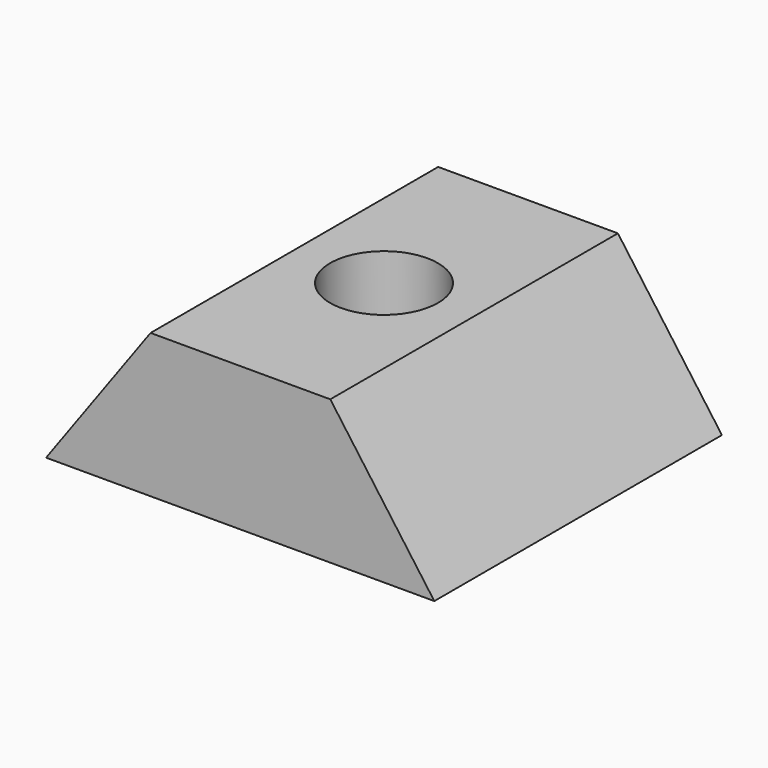
from build123d import *

# Parameters (mm, degrees)
F1_DEPTH = 10
F2_R     = 1.5
F3_DEPTH = 5


with BuildPart() as f1:
    # F0 (on Front) → F1 (new body)
    with BuildSketch(Plane.XZ):
        Polygon((-2.49383, 4), (-5.4, 0), (5.4, 0), (2.50617, 4), align=None)
    extrude(amount=F1_DEPTH)

    # F2 (on face) → F3 (cut)
    with BuildSketch(Plane.XY.offset(4)):
        with Locations((0, -5)):
            Circle(F2_R)
    extrude(amount=-F3_DEPTH, mode=Mode.SUBTRACT)


solid = f1.part
